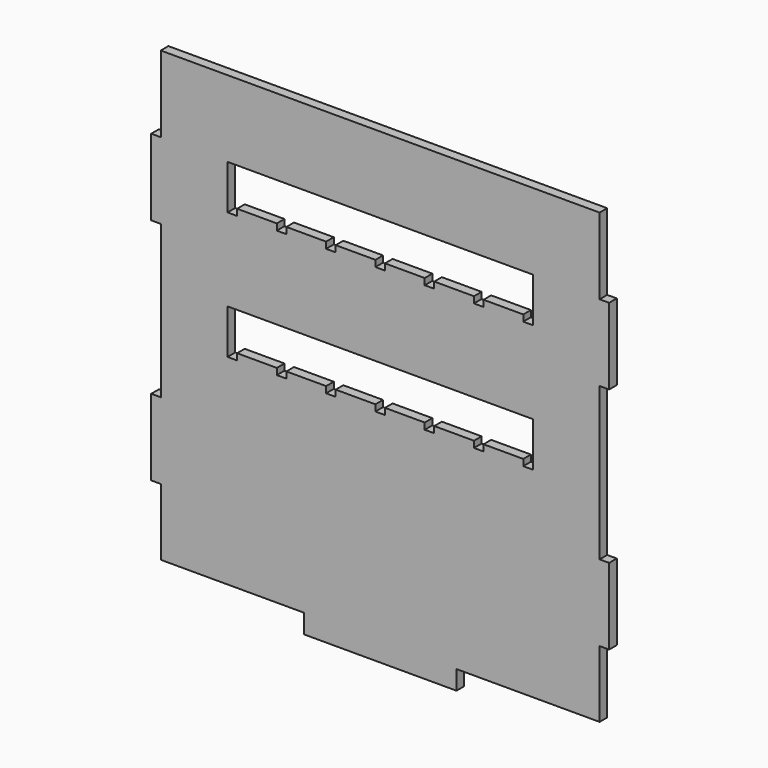
from build123d import *

# Parameters (mm, degrees)
F0_W     = 19.05
F0_H     = 152.4
F0_W_2   = 304.8
F0_H_2   = 38.1
F1_DEPTH = 19.05


with BuildPart() as f1:
    # F0 (on Front) → F1 (new body)
    with BuildSketch(Plane.XZ):
        Polygon((-438.15, -314.325), (-438.15, -447.675), (-152.4, -447.675), (152.4, -447.675), (438.15, -447.675), (438.15, -314.325), (438.15, -161.925), (438.15, 142.875), (438.15, 295.275), (438.15, 447.675), (-438.15, 447.675), (-438.15, 295.275), (-438.15, 142.875), (-438.15, -161.925), align=None)
        Polygon((-304.8, -47.625), (-304.8, -34.925), (-304.8, 41.275), (304.8, 41.275), (304.8, -34.925), (304.8, -47.625), (285.75, -47.625), (285.75, -34.925), (206.375, -34.925), (206.375, -47.625), (187.325, -47.625), (187.325, -34.925), (107.95, -34.925), (107.95, -47.625), (88.9, -47.625), (88.9, -34.925), (9.525, -34.925), (9.525, -47.625), (-9.525, -47.625), (-9.525, -34.925), (-88.9, -34.925), (-88.9, -47.625), (-107.95, -47.625), (-107.95, -34.925), (-187.325, -34.925), (-187.325, -47.625), (-206.375, -47.625), (-206.375, -34.925), (-285.75, -34.925), (-285.75, -47.625), align=None, mode=Mode.SUBTRACT)
        Polygon((-304.8, 295.275), (304.8, 295.275), (304.8, 219.075), (304.8, 206.375), (285.75, 206.375), (285.75, 219.075), (206.375, 219.075), (206.375, 206.375), (187.325, 206.375), (187.325, 219.075), (107.95, 219.075), (107.95, 206.375), (88.9, 206.375), (88.9, 219.075), (9.525, 219.075), (9.525, 206.375), (-9.525, 206.375), (-9.525, 219.075), (-88.9, 219.075), (-88.9, 206.375), (-107.95, 206.375), (-107.95, 219.075), (-187.325, 219.075), (-187.325, 206.375), (-206.375, 206.375), (-206.375, 219.075), (-285.75, 219.075), (-285.75, 206.375), (-304.8, 206.375), (-304.8, 219.075), align=None, mode=Mode.SUBTRACT)
        with Locations((-447.675, 219.075)):
            Rectangle(F0_W, F0_H)
        with Locations((-447.675, -238.125)):
            Rectangle(F0_W, F0_H)
        with Locations((0, -466.725)):
            Rectangle(F0_W_2, F0_H_2)
        with Locations((0, -466.725)):
            Rectangle(F0_W_2, F0_H_2)
        with Locations((447.675, 219.075)):
            Rectangle(F0_W, F0_H)
        with Locations((447.675, -238.125)):
            Rectangle(F0_W, F0_H)
    extrude(amount=F1_DEPTH)


solid = f1.part
